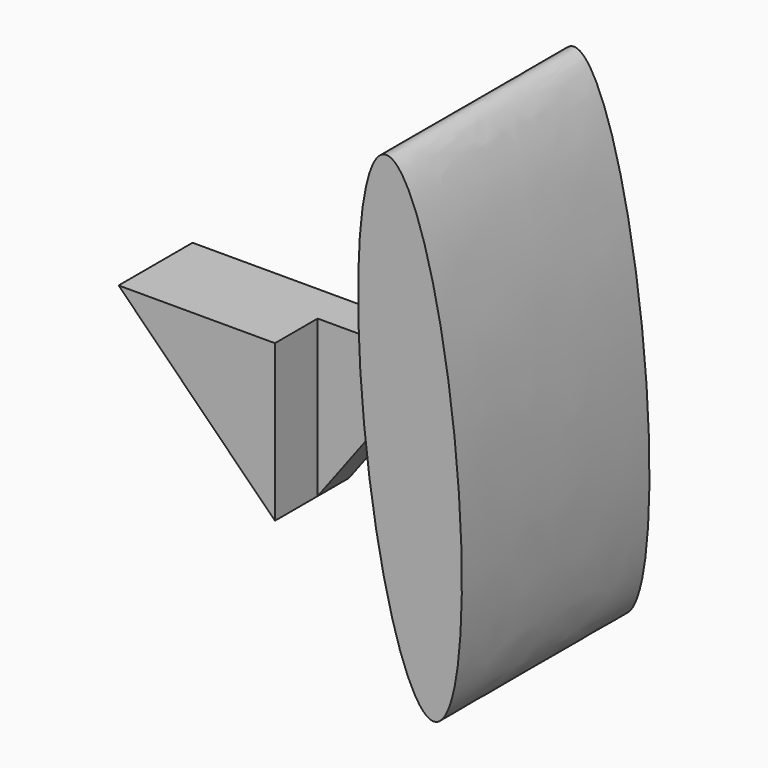
from build123d import *

# Parameters (mm, degrees)
F2_DEPTH = 25.4
F3_DEPTH = 60.086222
F5_DEPTH = 152.4


with BuildPart() as f2:
    # F0 (on Front) → F2 (new body)
    with BuildSketch(Plane.XZ):
        Polygon((76.2, 0), (0, 0), (0, -101.6), align=None)
    extrude(amount=F2_DEPTH)

    # F1 (on face) → F3 (join)
    with BuildSketch(Plane.XZ):
        Polygon((0, -101.6), (0, 0), (-101.6, 0), align=None)
    extrude(amount=F3_DEPTH)


with BuildPart() as f5:
    # F4 (on Front) → F5 (new body)
    with BuildSketch(Plane.XZ):
        with BuildLine():
            add(Edge.make_bspline(
                [(177.518412, -121.268257), (228.977308, -116.050662), (179.366611, 116.871002), (129.755914, 349.792667), (127.907716, 111.653407), (126.059517, -126.485853), (177.518412, -121.268257)],
                knots=[0, 0, 0, 2.094395, 2.094395, 4.18879, 4.18879, 6.283185, 6.283185, 6.283185], degree=2, weights=[1, 0.5, 1, 0.5, 1, 0.5, 1]))
        make_face()
    extrude(amount=F5_DEPTH)


solid = Compound([f2.part, f5.part])
